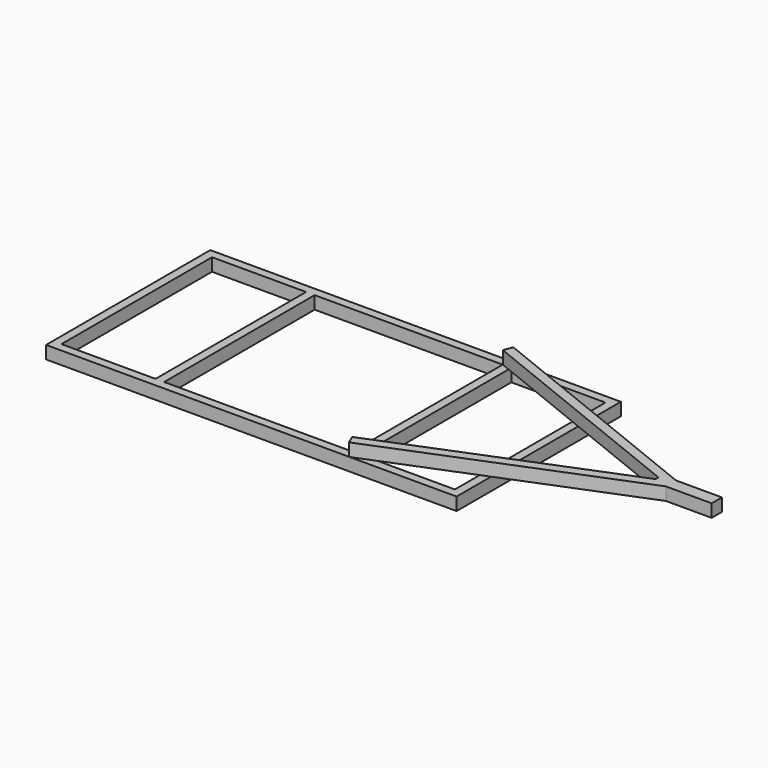
from build123d import *

# Parameters (mm, degrees)
F0_W     = 50.8
F0_H     = 1117.6
F0_H_2   = 50.8
F0_W_2   = 558.8
F0_W_3   = 1117.6
F1_DEPTH = 76.2
F3_DEPTH = 76.2


with BuildPart() as f1:
    # F0 (on Top) → F1 (new body)
    with BuildSketch(Plane.XY):
        with Locations((584.2, 0)):
            Rectangle(F0_W, F0_H)
        with Locations((584.2, -584.2)):
            Rectangle(F0_W, F0_H_2)
        with Locations((889, -584.2)):
            Rectangle(F0_W_2, F0_H_2)
        with Locations((0, -584.2)):
            Rectangle(F0_W_3, F0_H_2)
        with Locations((-584.2, -584.2)):
            Rectangle(F0_W, F0_H_2)
        with Locations((-584.2, 0)):
            Rectangle(F0_W, F0_H)
        with Locations((-889, -584.2)):
            Rectangle(F0_W_2, F0_H_2)
        with Locations((-1193.8, -584.2)):
            Rectangle(F0_W, F0_H_2)
        with Locations((-1193.8, 0)):
            Rectangle(F0_W, F0_H)
        with Locations((-1193.8, 584.2)):
            Rectangle(F0_W, F0_H_2)
        with Locations((-889, 584.2)):
            Rectangle(F0_W_2, F0_H_2)
        with Locations((0, 584.2)):
            Rectangle(F0_W_3, F0_H_2)
        with Locations((-584.2, 584.2)):
            Rectangle(F0_W, F0_H_2)
        with Locations((584.2, 584.2)):
            Rectangle(F0_W, F0_H_2)
        with Locations((889, 584.2)):
            Rectangle(F0_W_2, F0_H_2)
        with Locations((1193.8, 584.2)):
            Rectangle(F0_W, F0_H_2)
        with Locations((1193.8, 0)):
            Rectangle(F0_W, F0_H)
        with Locations((1193.8, -584.2)):
            Rectangle(F0_W, F0_H_2)
    extrude(amount=F1_DEPTH)

    # F2 (on face) → F3 (join)
    with BuildSketch(Plane.XY.offset(76.2)):
        Polygon((579.7902736313, 610.9931861274), (558.8, 558.8), (1921.2501768745, 10.8702002789), (1921.2501768745, 38.1), (2004.3129463656, 38.1), align=None)
        Polygon((1921.2501768745, 38.1), (1921.2501768745, 10.8702002789), (1948.2793807983, 0), (1921.2501768745, -10.8702002789), (1921.2501768745, -38.1), (2004.3129463656, -38.1), (2099.0501768745, 0), (2004.3129463656, 38.1), align=None)
        Polygon((1948.2793807983, 0), (1921.2501768745, 10.8702002789), (1921.2501768745, -10.8702002789), align=None)
        Polygon((1921.2501768745, -38.1), (1921.2501768745, -10.8702002789), (558.8, -558.8), (579.7902736313, -610.9931861274), (2004.3129463656, -38.1), align=None)
        Polygon((2276.8501768745, 38.1), (2004.3129463656, 38.1), (2099.0501768745, 0), (2004.3129463656, -38.1), (2276.8501768745, -38.1), align=None)
    extrude(amount=F3_DEPTH)


solid = f1.part
